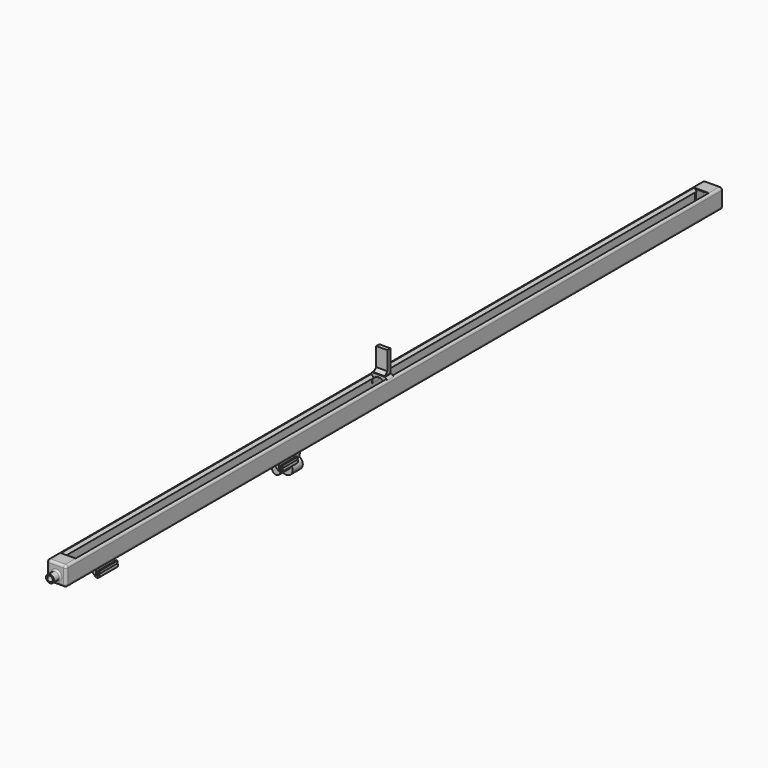
from build123d import *

# Parameters (mm, degrees)
PAD_DEPTH            = 10
CHAMFER_SIZE         = 3
SKETCH018_W          = 14.07752
SKETCH018_H          = 28.079826
PAD009_DEPTH         = 5
CHAMFER001_SIZE      = 4
PAD017_DEPTH         = 314
SKETCH028_W          = 260.75
SKETCH028_H          = 55.145052
POCKET004_DEPTH      = 13
PAD020_DEPTH         = 4
SKETCH026_R          = 2.2
POCKET005_DEPTH      = 0.001
POCKET005_DEPTH_BACK = 464.851
CHAMFER002_SIZE      = 2
PAD008_DEPTH         = 501
SKETCH019_R          = 2.2
PAD010_DEPTH         = 495
SKETCH020_W          = 13.9
SKETCH020_H          = 18.2
PAD011_DEPTH         = 15
PAD012_DEPTH         = 4
SKETCH022_R          = 4.5
POCKET_DEPTH         = 15
FILLET_R             = 3
SKETCH023_R          = 5
PAD016_DEPTH         = 10
SKETCH024_R          = 3.5
POCKET003_DEPTH      = 17
FILLET001_R          = 2
SKETCH029_R          = 8
PAD018_DEPTH         = 16
SKETCH030_R          = 5.25
PAD019_DEPTH         = 16


with BuildPart() as stripplacer:
    # Sketch017 → Pad (new body)
    with BuildSketch(Plane.XZ):
        with BuildLine():
            ThreePointArc((6.682066, -3.2), (0, 0.3), (-6.682066, -3.2))
            Line((-6.682066, -3.2), (-8.05, -3.2))
            Line((-8.05, -3.2), (-8.05, -9.2))
            Line((-8.05, -9.2), (-11.05, -9.2))
            Line((-11.05, -9.2), (-11.05, 3.3))
            Line((-11.05, 3.3), (11.05, 3.3))
            Line((11.05, 3.3), (11.05, -9.2))
            Line((11.05, -9.2), (8.05, -9.2))
            Line((8.05, -9.2), (8.05, -3.2))
            Line((6.682066, -3.2), (8.05, -3.2))
        make_face()
    extrude(amount=PAD_DEPTH)

    # Chamfer
    chamfer_edges = [stripplacer.edges().sort_by_distance(p)[0] for p in [
        (11.05, -5, 3.3),
        (-11.05, -5, 3.3),
    ]]
    chamfer(chamfer_edges, length=CHAMFER_SIZE)

    # Sketch018 → Pad009 (join)
    with BuildSketch(Plane.XZ):
        with Locations((0, 16.761206)):
            Rectangle(SKETCH018_W, SKETCH018_H)
    extrude(amount=PAD009_DEPTH)

    # Chamfer001
    chamfer001_edges = [stripplacer.edges().sort_by_distance(p)[0] for p in [
        (0, -5, 3.3),
    ]]
    chamfer(chamfer001_edges, length=CHAMFER001_SIZE)


with BuildPart() as scratch:
    # Sketch027 → Pad017 (new body)
    with BuildSketch(Plane.XZ.offset(150.85)):
        with BuildLine():
            Line((0, -30), (4.242641, -34.242641))
            Line((4.242641, -34.242641), (5.432671, -35.155783))
            ThreePointArc((5.432671, -35.155783), (9.693241, -34.963059), (10.23, -30.732044))
            Line((10.23, -27.641203), (10.23, -30.732044))
            Line((8.55, -27.641203), (10.23, -27.641203))
            Line((8.55, -31.817216), (8.55, -27.641203))
            ThreePointArc((6.25, -32.495449), (7.853553, -33.694407), (8.55, -31.817216))
            Line((6.25, -32.495449), (6.25, -26.495449))
            Line((6.25, -26.495449), (9, -23.2))
            Line((9, -23.2), (-9, -23.2))
            Line((-6.25, -26.495449), (-9, -23.2))
            Line((-6.25, -32.495449), (-6.25, -26.495449))
            ThreePointArc((-7.85, -31.295449), (-8.25, -33.495449), (-6.25, -32.495449))
            Line((-7.85, -31.295449), (-8.13, -30.335449))
            Line((-8.13, -30.335449), (-10.23, -30.732044))
            ThreePointArc((-10.23, -30.732044), (-9.693241, -34.963059), (-5.432671, -35.155783))
            Line((-5.432671, -35.155783), (-4.242641, -34.242641))
            Line((0, -30), (-4.242641, -34.242641))
        make_face()
    extrude(amount=PAD017_DEPTH)

    # Sketch028 → Pocket004 (cut, symmetric)
    with BuildSketch(Plane.YZ):
        with Locations((-305.485, -51.022526)):
            Rectangle(SKETCH028_W, SKETCH028_H)
    extrude(amount=POCKET004_DEPTH, both=True, mode=Mode.SUBTRACT)

    # Sketch031 → Pad020 (join, symmetric)
    with BuildSketch(Plane.YZ):
        Polygon((-150.856202, -23.037742), (-136.840721, -23.037742), (-141.741028, -36.52681), (-148.936783, -40.054512), (-150.856202, -40.054512), align=None)
    extrude(amount=PAD020_DEPTH, both=True)

    # Sketch026 → Pocket005 (cut, two sides)
    with BuildSketch(Plane.XZ) as pocket005_sk:
        with Locations((0, -26.65)):
            Circle(SKETCH026_R)
    extrude(amount=-POCKET005_DEPTH, mode=Mode.SUBTRACT)
    extrude(pocket005_sk.sketch, amount=POCKET005_DEPTH_BACK, mode=Mode.SUBTRACT)

    # Chamfer002
    chamfer002_edges = [scratch.edges().sort_by_distance(p)[0] for p in [
        (-9.18, -150.85, -30.533746),
        (-9.18, -175.11, -30.533746),
        (-9.18, -464.85, -30.533746),
        (-9.18, -435.86, -30.533746),
    ]]
    chamfer(chamfer002_edges, length=CHAMFER002_SIZE)


with BuildPart() as obj1:
    # Sketch016 → Pad008 (new body)
    with BuildSketch(Plane.XZ):
        with BuildLine():
            ThreePointArc((-9.2, 0.95), (-11.32132, 0.07132), (-12.2, -2.05))
            Line((-12.2, -20.45), (-12.2, -2.05))
            ThreePointArc((-12.2, -20.45), (-11.32132, -22.57132), (-9.2, -23.45))
            Line((9.2, -23.45), (-9.2, -23.45))
            ThreePointArc((9.2, -23.45), (11.32132, -22.57132), (12.2, -20.45))
            Line((12.2, -2.05), (12.2, -20.45))
            ThreePointArc((12.2, -2.05), (11.32132, 0.07132), (9.2, 0.95))
            Line((6.11895, -2.292259), (9.2, 0.95))
            Line((6.916338, -3.05), (6.11895, -2.292259))
            Line((8.2, -3.05), (6.916338, -3.05))
            Line((8.2, -19.45), (8.2, -3.05))
            Line((-8.2, -19.45), (8.2, -19.45))
            Line((-8.2, -3.05), (-8.2, -19.45))
            Line((-8.2, -3.05), (-6.916338, -3.05))
            Line((-6.916338, -3.05), (-6.11895, -2.292259))
            Line((-9.2, 0.95), (-6.11895, -2.292259))
        make_face()
    extrude(amount=PAD008_DEPTH)

    # Sketch019 → Pad010 (join)
    with BuildSketch(Plane.XZ):
        with BuildLine():
            ThreePointArc((-3.15, -25.124385), (0, -30.15), (3.15, -25.124385))
            Line((3.15, -25.124385), (3.5, -23.45))
            Line((-3.5, -23.45), (3.5, -23.45))
            Line((-3.15, -25.124385), (-3.5, -23.45))
        make_face()
        with Locations((0, -26.65)):
            Circle(SKETCH019_R, mode=Mode.SUBTRACT)
    extrude(amount=PAD010_DEPTH)

    # Sketch020 → Pad011 (join)
    with BuildSketch(Plane.XZ.offset(501)):
        with BuildLine():
            ThreePointArc((-9.2, 0.95), (-11.32132, 0.07132), (-12.2, -2.05))
            Line((-12.2, -20.45), (-12.2, -2.05))
            ThreePointArc((-12.2, -20.45), (-11.32132, -22.57132), (-9.2, -23.45))
            Line((9.2, -23.45), (-9.2, -23.45))
            ThreePointArc((9.2, -23.45), (11.32132, -22.57132), (12.2, -20.45))
            Line((12.2, -2.05), (12.2, -20.45))
            ThreePointArc((12.2, -2.05), (11.32132, 0.07132), (9.2, 0.95))
            Line((-9.2, 0.95), (9.2, 0.95))
        make_face()
        with Locations((0, -9.1)):
            Rectangle(SKETCH020_W, SKETCH020_H, mode=Mode.SUBTRACT)
    extrude(amount=PAD011_DEPTH)

    # Sketch021 → Pad012 (join)
    with BuildSketch(Plane.XZ.offset(516)):
        with BuildLine():
            ThreePointArc((-9.2, 0.95), (-11.32132, 0.07132), (-12.2, -2.05))
            Line((-12.2, -20.45), (-12.2, -2.05))
            ThreePointArc((-12.2, -20.45), (-11.32132, -22.57132), (-9.2, -23.45))
            Line((9.2, -23.45), (-9.2, -23.45))
            ThreePointArc((9.2, -23.45), (11.32132, -22.57132), (12.2, -20.45))
            Line((12.2, -2.05), (12.2, -20.45))
            ThreePointArc((12.2, -2.05), (11.32132, 0.07132), (9.2, 0.95))
            Line((-9.2, 0.95), (9.2, 0.95))
        make_face()
    extrude(amount=PAD012_DEPTH)

    # Sketch022 → Pocket (cut)
    with BuildSketch(Plane.XZ.offset(495)):
        with Locations((0, -26.65)):
            Circle(SKETCH022_R)
    extrude(amount=POCKET_DEPTH, mode=Mode.SUBTRACT)

    # Fillet
    fillet_edges = [obj1.edges().sort_by_distance(p)[0] for p in [
        (-6.95, -516, -9.1),
        (0, -516, -18.2),
        (6.95, -516, -9.1),
        (0, -516, 0),
        (-11.32132, -520, 0.07132),
        (-12.2, -520, -11.25),
        (-11.32132, -520, -22.57132),
        (0, -520, -23.45),
        (11.32132, -520, -22.57132),
        (12.2, -520, -11.25),
        (11.32132, -520, 0.07132),
        (0, -520, 0.95),
    ]]
    fillet(fillet_edges, radius=FILLET_R)


with BuildPart() as obj2:
    # Part__Mirroring: instance of obj1
    add(obj1.part.mirror(Plane(origin=(0, 0, 0), x_dir=(1, 0, 0), z_dir=(0, 1, 0))))


with BuildPart() as body:
    # Fusion base: copy of obj1
    add(obj1.part)

    # Fusion: union obj2
    add(obj2.part)

    # Sketch023 → Pad016 (new body)
    with BuildSketch(Plane.XZ.offset(520)):
        with Locations((0, -13)):
            Circle(SKETCH023_R)
    extrude(amount=PAD016_DEPTH)

    # Sketch024 → Pocket003 (cut)
    with BuildSketch(Plane.XZ.offset(530)):
        with Locations((0, -13)):
            Circle(SKETCH024_R)
    extrude(amount=-POCKET003_DEPTH, mode=Mode.SUBTRACT)

    # Fillet001
    fillet001_edges = [body.edges().sort_by_distance(p)[0] for p in [
        (-5, -520, -13),
    ]]
    fillet(fillet001_edges, radius=FILLET001_R)

    # Fusion001: union Scratch
    add(scratch.part)


with BuildPart() as rods:
    # Sketch029 → Pad018 (new body)
    with BuildSketch(Plane.XZ.offset(140)):
        with Locations((0, -41.13113)):
            Circle(SKETCH029_R)
    extrude(amount=PAD018_DEPTH)

    # Sketch030 (on Face3 of Pad018) → Pad019 (join)
    with BuildSketch(Plane.XZ.offset(156)):
        with Locations((0, -37.436907)):
            Circle(SKETCH030_R)
    extrude(amount=PAD019_DEPTH)


solid = Compound([stripplacer.part, body.part, rods.part])
